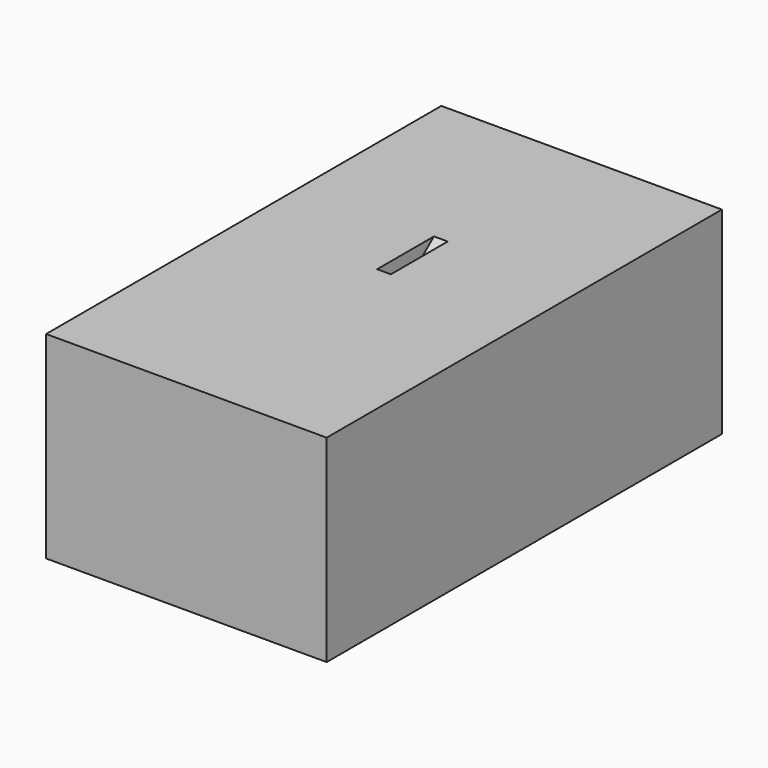
from build123d import *

# Parameters (mm, degrees)
F1_DEPTH = 36.068
F2_DEPTH = 1.76784


with BuildPart() as f1:
    # F0 (on Right) → F1 (new body, symmetric)
    with BuildSketch(Plane.YZ):
        with BuildLine():
            Line((-30.5587001792, -41.2470010145), (-33.0731718931, -38.7325293006))
            Line((-33.0731718931, -38.7325293006), (-25.0341863335, -30.693543741))
            ThreePointArc((-25.0341863335, -30.693543741), (-24.1188200085, -29.7289489003), (-23.2551911546, -28.7177694315))
            Line((-23.2551911546, -28.7177694315), (0, 0))
            Line((0, 0), (-63.5, 0))
            Line((-63.5, 0), (-63.5, -50.8))
            Line((-63.5, -50.8), (63.5, -50.8))
            Line((63.5, -50.8), (63.5, 0))
            Line((63.5, 0), (18.2676674614, 0))
            Line((18.2676674614, 0), (8.1738291214, -8.1738291214))
            Line((8.1738291214, -8.1738291214), (-20.5439403101, -31.429020276))
            ThreePointArc((-20.5439403101, -31.429020276), (-21.5551197789, -32.2926491299), (-22.5197146196, -33.2080154549))
            Line((-22.5197146196, -33.2080154549), (-30.5587001792, -41.2470010145))
        make_face()
        with BuildLine():
            Line((-25.0341863335, -30.693543741), (-33.0731718931, -38.7325293006))
            Line((-33.0731718931, -38.7325293006), (-30.5587001792, -41.2470010145))
            Line((-30.5587001792, -41.2470010145), (-22.5197146196, -33.2080154549))
            ThreePointArc((-22.5197146196, -33.2080154549), (-21.5551197789, -32.2926491299), (-20.5439403101, -31.429020276))
            Line((-20.5439403101, -31.429020276), (8.1738291214, -8.1738291214))
            Line((8.1738291214, -8.1738291214), (0, 0))
            Line((0, 0), (-23.2551911546, -28.7177694315))
            ThreePointArc((-23.2551911546, -28.7177694315), (-24.1188200085, -29.7289489003), (-25.0341863335, -30.693543741))
        make_face()
        Polygon((18.2676674614, 0), (0, 0), (8.1738291214, -8.1738291214), align=None)
        with BuildLine():
            Line((-30.5587001792, -41.2470010145), (-33.0731718931, -38.7325293006))
            Line((-33.0731718931, -38.7325293006), (-25.0341863335, -30.693543741))
            ThreePointArc((-25.0341863335, -30.693543741), (-24.1188200085, -29.7289489003), (-23.2551911546, -28.7177694315))
            Line((-23.2551911546, -28.7177694315), (0, 0))
            Line((0, 0), (-63.5, 0))
            Line((-63.5, 0), (-63.5, -50.8))
            Line((-63.5, -50.8), (63.5, -50.8))
            Line((63.5, -50.8), (63.5, 0))
            Line((63.5, 0), (18.2676674614, 0))
            Line((18.2676674614, 0), (8.1738291214, -8.1738291214))
            Line((8.1738291214, -8.1738291214), (-20.5439403101, -31.429020276))
            ThreePointArc((-20.5439403101, -31.429020276), (-21.5551197789, -32.2926491299), (-22.5197146196, -33.2080154549))
            Line((-22.5197146196, -33.2080154549), (-30.5587001792, -41.2470010145))
        make_face()
    extrude(amount=F1_DEPTH, both=True)

    # F0 (on Right) → F2 (cut, symmetric)
    with BuildSketch(Plane.YZ):
        with BuildLine():
            Line((-25.0341863335, -30.693543741), (-33.0731718931, -38.7325293006))
            Line((-33.0731718931, -38.7325293006), (-30.5587001792, -41.2470010145))
            Line((-30.5587001792, -41.2470010145), (-22.5197146196, -33.2080154549))
            ThreePointArc((-22.5197146196, -33.2080154549), (-21.5551197789, -32.2926491299), (-20.5439403101, -31.429020276))
            Line((-20.5439403101, -31.429020276), (8.1738291214, -8.1738291214))
            Line((8.1738291214, -8.1738291214), (0, 0))
            Line((0, 0), (-23.2551911546, -28.7177694315))
            ThreePointArc((-23.2551911546, -28.7177694315), (-24.1188200085, -29.7289489003), (-25.0341863335, -30.693543741))
        make_face()
        Polygon((18.2676674614, 0), (0, 0), (8.1738291214, -8.1738291214), align=None)
    extrude(amount=F2_DEPTH, both=True, mode=Mode.SUBTRACT)


solid = f1.part
